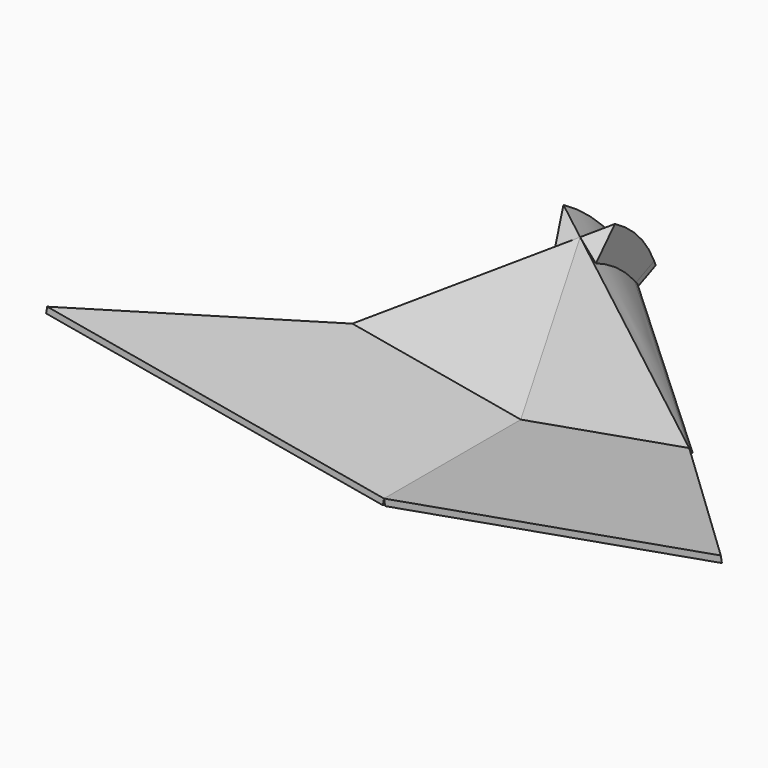
from build123d import *

# Parameters (mm, degrees)
F1_DEPTH  = 1.905
F2_ANGLE  = 10
F3_DEPTH  = 1.905
F4_ANGLE  = -10
F5_DEPTH  = 1.905
F6_ANGLE  = 10
F7_ANGLE  = -30
F8_DEPTH  = 1.905
F9_ANGLE  = -10
F10_ANGLE = -30
F11_ANGLE = 30
F12_ANGLE = 30


with BuildPart() as f1:
    # F0 (on Top) → F1 (new body)
    with BuildSketch(Plane.XY):
        Polygon((-50.8, 50.8), (-101.6, 0), (0, 0), (0, 50.8), align=None)
    extrude(amount=F1_DEPTH)


with BuildPart() as f1_1:
    # F2: moved
    add(f1.part.rotate(Axis((0, 25.4, 1.905), (0, 1, 0)), F2_ANGLE))


with BuildPart() as f3:
    # F0 (on Top) → F3 (new body)
    with BuildSketch(Plane.XY):
        Polygon((0, 50.8), (0, 0), (101.6, 0), (50.8, 50.8), align=None)
    extrude(amount=F3_DEPTH)


with BuildPart() as f3_1:
    # F4: moved
    add(f3.part.rotate(Axis((0, 25.4, 1.905), (0, 1, 0)), F4_ANGLE))


with BuildPart() as f5:
    # F0 (on Top) → F5 (new body)
    with BuildSketch(Plane.XY):
        Polygon((0, 101.6), (-50.8, 50.8), (0, 50.8), align=None)
    extrude(amount=F5_DEPTH)


with BuildPart() as f5_1:
    # F6: moved
    add(f5.part.rotate(Axis((0, 76.2, 1.905), (0, 1, 0)), F6_ANGLE))


with BuildPart() as f5_2:
    # F7: moved
    add(f5_1.part.rotate(Axis((-25.0141169265, 50.8, 6.3156637127), (-0.984807753, 0, 0.1736481777)), F7_ANGLE))


with BuildPart() as f8:
    # F0 (on Top) → F8 (new body)
    with BuildSketch(Plane.XY):
        Polygon((0, 101.6), (0, 50.8), (50.8, 50.8), align=None)
    extrude(amount=F8_DEPTH)


with BuildPart() as f8_1:
    # F9: moved
    add(f8.part.rotate(Axis((0, 76.2, 1.905), (0, 1, 0)), F9_ANGLE))


with BuildPart() as f8_2:
    # F10: moved
    add(f8_1.part.rotate(Axis((25.0141169265, 50.8, 6.3156637127), (-0.984807753, 0, -0.1736481777)), F10_ANGLE))


with BuildPart() as f11:
    # F5_face (on face) → F11 (revolve)
    with BuildSketch(Plane(origin=(-15.2058567134, 65.4646968374, 13.1834814507), x_dir=(0.9576237697, 0.2880220749, 0), z_dir=(0.1503837332, -0.5, 0.852868532))):
        Polygon((27.2327590626, 26.3071420479), (-37.5704924788, -4.7060582008), (10.3377334162, -21.6010838471), align=None)
    revolve(axis=Axis((-25.0141169265, 50.8, 6.3156637127), (0.984807753, 0, -0.1736481777)), revolution_arc=F11_ANGLE)


with BuildPart() as f12:
    # F8_face (on face) → F12 (revolve)
    with BuildSketch(Plane(origin=(15.2058567134, 65.4646968374, 13.1834814507), x_dir=(0.9576237697, -0.2880220749, 0), z_dir=(-0.1503837332, -0.5, 0.852868532))):
        Polygon((-27.2327590626, 26.3071420479), (-10.3377334162, -21.6010838471), (37.5704924788, -4.7060582008), align=None)
    revolve(axis=Axis((25.0141169265, 50.8, 6.3156637127), (0.984807753, 0, 0.1736481777)), revolution_arc=F12_ANGLE)


solid = Compound([f1_1.part, f3_1.part, f5_2.part, f8_2.part, f11.part, f12.part])
